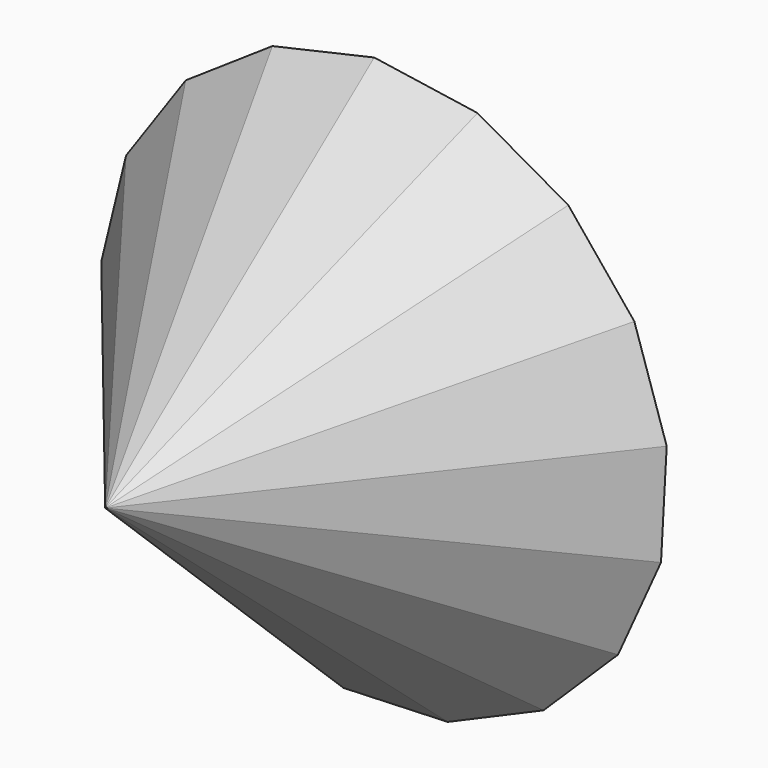
from build123d import *


with BuildPart() as f3:
    # F0 (on Front) → F3 section 0
    with BuildSketch(Plane.XZ, mode=Mode.PRIVATE) as f3_s0:
        Polygon((-56.9447709006, 57.9030166363), (-74.0163996816, 33.4221310914), (-81.0917035465, 4.4274015441), (-77.2151235029, -25.1652731148), (-62.9102131664, -51.359238194), (-40.1089299443, -70.6168535637), (-11.8907134819, -80.3372715581), (17.9334097249, -79.2076958644), (45.3355265759, -67.3806819392), (66.61482935, -46.4535335489), (78.8974302949, -19.2525780449), (80.5244960927, 10.5485448063), (71.2762824915, 38.9250282299), (52.4018119844, 62.0444709), (26.4501864003, 76.7844639748), (-3.0736834227, 81.1542897124), (-32.1824352676, 74.5637789329), align=None)
    loft([f3_s0.sketch, Vertex(0, -100, 9.4426637515)])


solid = f3.part
